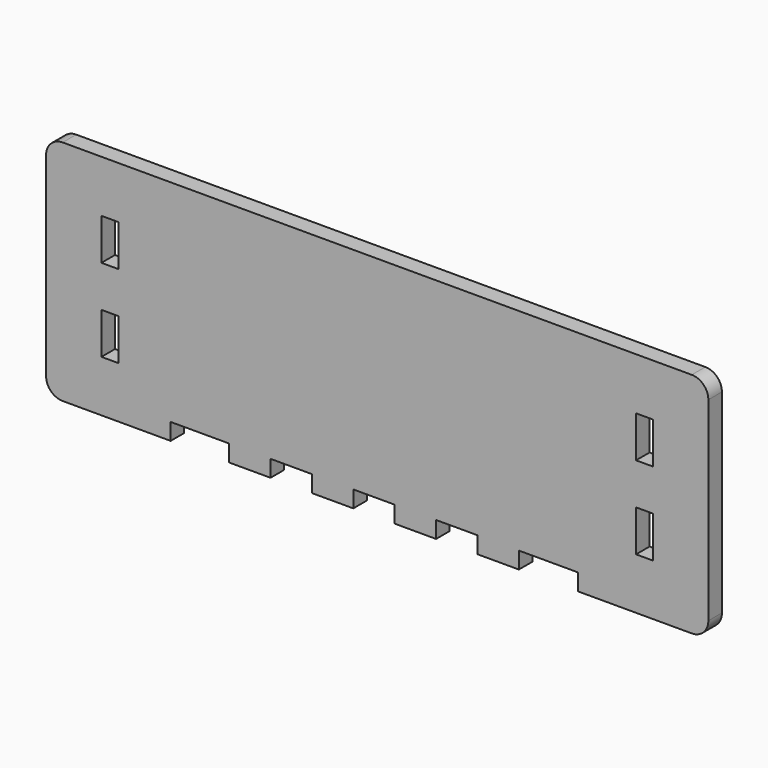
from build123d import *

# Parameters (mm, degrees)
F0_W     = 203.2
F0_H     = 69.85
F1_DEPTH = 5.207
F2_R     = 5.08
F3_W     = 5.207
F3_H     = 12.7
F3_W_2   = 12.7
F3_H_2   = 5.129387
F3_W_3   = 18.097754
F4_DEPTH = 5.208


with BuildPart() as f1:
    # F0 (on Front) → F1 (new body)
    with BuildSketch(Plane.XZ):
        Rectangle(F0_W, F0_H)
    extrude(amount=F1_DEPTH)

    # F2
    f2_edges = [f1.edges().sort_by_distance(p)[0] for p in [
        (-101.6, -2.6035, 34.925),
        (-101.6, -2.6035, -34.925),
        (101.6, -2.6035, -34.925),
        (101.6, -2.6035, 34.925),
    ]]
    fillet(f2_edges, radius=F2_R)

    # F3 (on face) → F4 (cut, through all)
    with BuildSketch(Plane.XZ.offset(5.207)):
        with Locations((-82.0166, 12.622387)):
            Rectangle(F3_W, F3_H)
        with Locations((-82.0166, -12.777613)):
            Rectangle(F3_W, F3_H)
        Polygon((-63.380809, -34.925), (-45.438314, -34.925), (-45.438314, -29.795613), (-63.39332, -29.795613), align=None)
        with Locations((-26.388314, -32.360307)):
            Rectangle(F3_W_2, F3_H_2)
        with Locations((-0.988314, -32.360307)):
            Rectangle(F3_W_2, F3_H_2)
        with Locations((24.411686, -32.360307)):
            Rectangle(F3_W_2, F3_H_2)
        with Locations((52.510563, -32.360307)):
            Rectangle(F3_W_3, F3_H_2)
        with Locations((82.0166, -12.777613)):
            Rectangle(F3_W, F3_H)
        with Locations((82.0166, 12.622387)):
            Rectangle(F3_W, F3_H)
    extrude(amount=-F4_DEPTH, mode=Mode.SUBTRACT)


solid = f1.part
